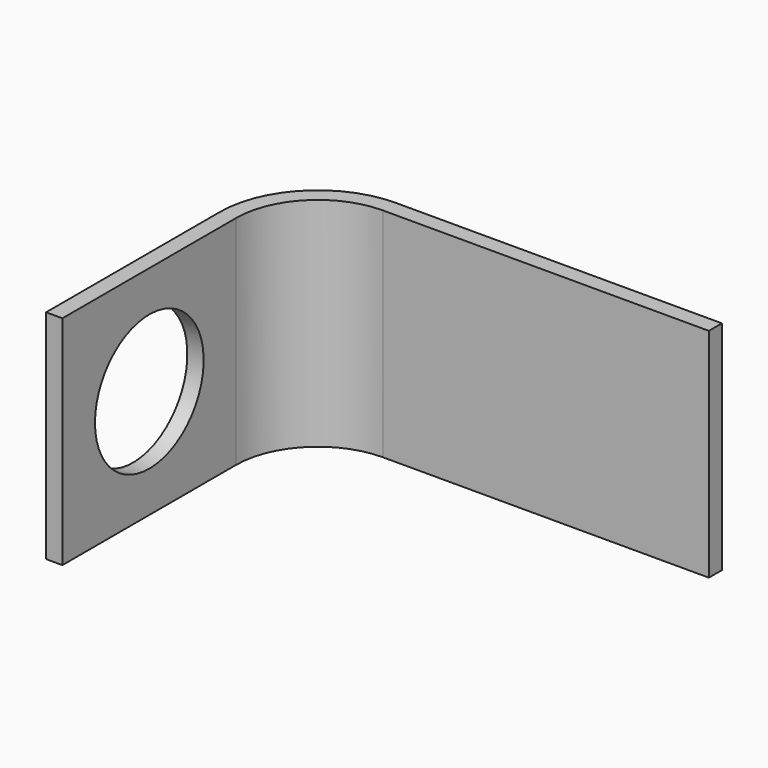
from build123d import *

# Parameters (mm, degrees)
F1_DEPTH = 16
F2_R     = 5
F3_DEPTH = 31.200998


with BuildPart() as f1:
    # F0 (on Top) → F1 (new body)
    with BuildSketch(Plane.XY):
        with BuildLine():
            Line((-49.38504, 20.824596), (-48.185041, 20.824596))
            Line((-48.185041, 20.824596), (-48.185041, 36.824596))
            ThreePointArc((-48.185041, 36.824596), (-46.427682, 41.067237), (-42.185041, 42.824596))
            Line((-42.185041, 42.824596), (-18.185041, 42.824596))
            Line((-18.185041, 42.824596), (-18.185041, 44.024594))
            Line((-18.185041, 44.024594), (-42.185041, 44.024594))
            ThreePointArc((-42.185041, 44.024594), (-47.276209, 41.915763), (-49.38504, 36.824596))
            Line((-49.38504, 36.824596), (-49.38504, 20.824596))
        make_face()
    extrude(amount=F1_DEPTH)

    # F2 (on face) → F3 (cut, through all)
    with BuildSketch(Plane(origin=(-49.38504, 0, 0), x_dir=(0, -1, 0), z_dir=(-1, 0, 0))):
        with Locations((-28.824596, 8)):
            Circle(F2_R)
    extrude(amount=-F3_DEPTH, mode=Mode.SUBTRACT)


solid = f1.part
